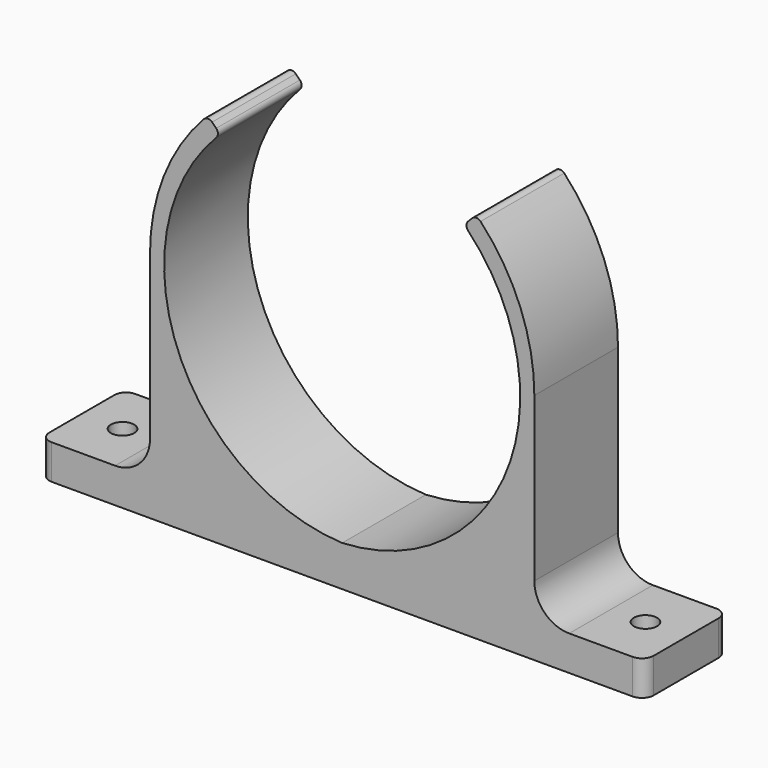
from build123d import *

# Parameters (mm, degrees)
F1_DEPTH = 18
F2_R     = 2
F3_DEPTH = 6
F4_R     = 2
F5_R     = 6


with BuildPart() as f1:
    # F0 (on Front) → F1 (new body)
    with BuildSketch(Plane.XZ):
        with BuildLine():
            ThreePointArc((21.663506, 20.276783), (28.356264, -13.893308), (0, -34.1))
            ThreePointArc((0, -34.1), (-28.356264, -13.893308), (-21.663506, 20.276783))
            ThreePointArc((-21.663506, 20.276783), (-21.384271, 20.979731), (-21.677117, 21.677117))
            Line((-21.677117, 21.677117), (-22.384578, 22.384578))
            ThreePointArc((-22.384578, 22.384578), (-23.107247, 22.67735), (-23.820455, 22.362229))
            ThreePointArc((-23.820455, 22.362229), (-30.676458, 11.564077), (-33.074125, -1))
            Line((-33.074125, -1), (-33.074125, -35.098328))
            Line((-33.074125, -35.098328), (-52, -35.098328))
            Line((-52, -35.098328), (-52, -41.098328))
            Line((-52, -41.098328), (0, -41.098328))
            Line((0, -41.098328), (52, -41.098328))
            Line((52, -41.098328), (52, -35.098328))
            Line((52, -35.098328), (33.074125, -35.098328))
            Line((33.074125, -35.098328), (33.074125, -1))
            ThreePointArc((33.074125, -1), (30.676458, 11.564077), (23.820455, 22.362229))
            ThreePointArc((23.820455, 22.362229), (23.107247, 22.67735), (22.384578, 22.384578))
            Line((22.384578, 22.384578), (21.677117, 21.677117))
            ThreePointArc((21.677117, 21.677117), (21.384271, 20.979731), (21.663506, 20.276783))
        make_face()
    extrude(amount=F1_DEPTH)

    # F2 (on face) → F3 (cut, through all)
    with BuildSketch(Plane(origin=(0, 0, -41.098328), x_dir=(1, 0, 0), z_dir=(0, 0, -1))):
        with Locations((-45, 9)):
            Circle(F2_R)
        with Locations((45, 9)):
            Circle(F2_R)
    extrude(amount=-F3_DEPTH, mode=Mode.SUBTRACT)

    # F4
    f4_edges = [f1.edges().sort_by_distance(p)[0] for p in [
        (-52, 0, -38.098328),
        (-52, -18, -38.098328),
        (52, -18, -38.098328),
        (52, 0, -38.098328),
    ]]
    fillet(f4_edges, radius=F4_R)

    # F5
    f5_edges = [f1.edges().sort_by_distance(p)[0] for p in [
        (-33.074125, -9, -35.098328),
        (33.074125, -9, -35.098328),
    ]]
    fillet(f5_edges, radius=F5_R)


solid = f1.part
